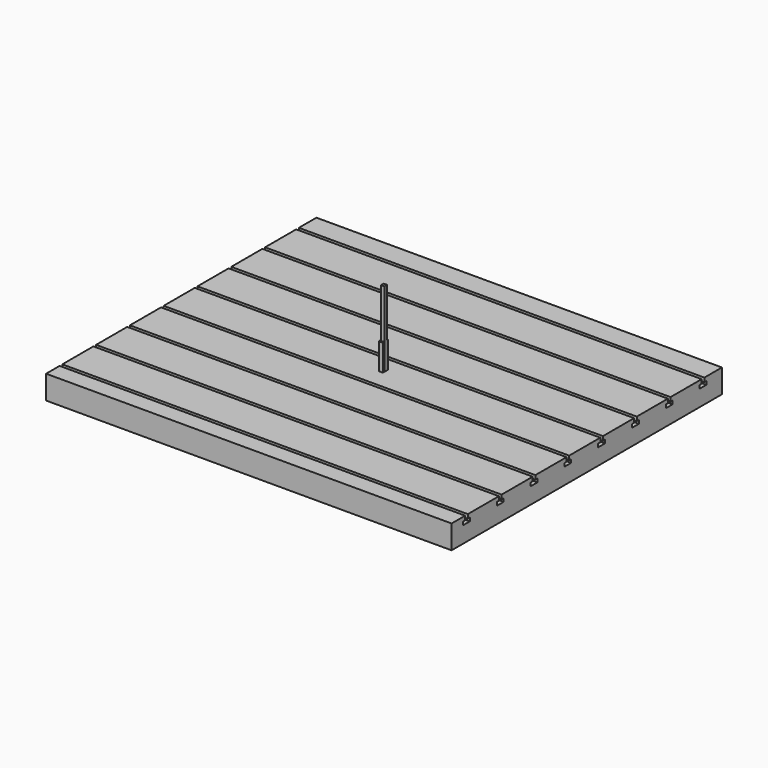
from build123d import *

# Parameters (mm, degrees)
F1_DEPTH       = 600
F1_DEPTH_BACK  = 600
F2_R           = 12.5
F2_R_2         = 5
F3_DEPTH       = 4
F3_DEPTH_BACK  = 4
F4_R           = 5
F5_DEPTH       = 15
F5_DEPTH_BACK  = 23
F6_W           = 10
F6_H           = 10
F7_DEPTH       = 250
F7_DEPTH_BACK  = 250
F9_DEPTH       = 105
F9_DEPTH_BACK  = 105
F10_W          = 234
F10_H          = 220
F11_DEPTH      = 7
F11_DEPTH_BACK = 7


with BuildPart() as f1:
    # F0 (on Right) → F1 (new body, two sides)
    with BuildSketch(Plane.YZ) as f1_sk:
        Polygon((-450, 27.012093), (-500, 27.012093), (-500, -42.987907), (500, -42.987907), (500, 27.012093), (435, 27.012093), (435, 15.012093), (442.5, 15.012093), (442.5, 5.012093), (417.5, 5.012093), (417.5, 15.012093), (425, 15.012093), (425, 27.012093), (375, 27.012093), (310, 27.012093), (310, 15.012093), (317.5, 15.012093), (317.5, 5.012093), (292.5, 5.012093), (292.5, 15.012093), (300, 15.012093), (300, 27.012093), (250, 27.012093), (185, 27.012093), (185, 15.012093), (192.5, 15.012093), (192.5, 5.012093), (167.5, 5.012093), (167.5, 15.012093), (175, 15.012093), (175, 27.012093), (125, 27.012093), (60, 27.012093), (60, 15.012093), (67.5, 15.012093), (67.5, 5.012093), (42.5, 5.012093), (42.5, 15.012093), (50, 15.012093), (50, 27.012093), (0, 27.012093), (-65, 27.012093), (-65, 15.012093), (-57.5, 15.012093), (-57.5, 5.012093), (-82.5, 5.012093), (-82.5, 15.012093), (-75, 15.012093), (-75, 27.012093), (-125, 27.012093), (-190, 27.012093), (-190, 15.012093), (-182.5, 15.012093), (-182.5, 5.012093), (-207.5, 5.012093), (-207.5, 15.012093), (-200, 15.012093), (-200, 27.012093), (-250, 27.012093), (-315, 27.012093), (-315, 15.012093), (-307.5, 15.012093), (-307.5, 5.012093), (-332.5, 5.012093), (-332.5, 15.012093), (-325, 15.012093), (-325, 27.012093), (-375, 27.012093), (-440, 27.012093), (-440, 15.012093), (-432.5, 15.012093), (-432.5, 5.012093), (-457.5, 5.012093), (-457.5, 15.012093), (-450, 15.012093), align=None)
    extrude(amount=F1_DEPTH)
    extrude(f1_sk.sketch, amount=-F1_DEPTH_BACK)


with BuildPart() as f3:
    # F2 (on Top) → F3 (new body, two sides)
    with BuildSketch(Plane.XY) as f3_sk:
        Polygon((90, 95), (-140, 95), (-140, -95), (90, -95), (140, -45), (140, 55), align=None)
        with Locations((-110, -60)):
            Circle(F2_R, mode=Mode.SUBTRACT)
        with Locations((-40, -60)):
            Circle(F2_R, mode=Mode.SUBTRACT)
        with Locations((30, -60)):
            Circle(F2_R, mode=Mode.SUBTRACT)
        with Locations((-110, 0)):
            Circle(F2_R, mode=Mode.SUBTRACT)
        with Locations((-40, 0)):
            Circle(F2_R, mode=Mode.SUBTRACT)
        with Locations((-110, 60)):
            Circle(F2_R, mode=Mode.SUBTRACT)
        with Locations((-40, 60)):
            Circle(F2_R, mode=Mode.SUBTRACT)
        with Locations((30, 0)):
            Circle(F2_R, mode=Mode.SUBTRACT)
        with Locations((130, 0)):
            Circle(F2_R_2, mode=Mode.SUBTRACT)
        with Locations((30, 60)):
            Circle(F2_R, mode=Mode.SUBTRACT)
    extrude(amount=F3_DEPTH)
    extrude(f3_sk.sketch, amount=-F3_DEPTH_BACK)

    # F4 (on face) → F5 (join, two sides)
    with BuildSketch(Plane.XY.offset(4)) as f5_sk:
        with Locations((130, 0)):
            Circle(F4_R)
    extrude(amount=F5_DEPTH)
    extrude(f5_sk.sketch, amount=-F5_DEPTH_BACK)


with BuildPart() as f7:
    # F6 (on Top) → F7 (new body, two sides)
    with BuildSketch(Plane.XY) as f7_sk:
        Rectangle(F6_W, F6_H)
    extrude(amount=F7_DEPTH)
    extrude(f7_sk.sketch, amount=-F7_DEPTH_BACK)


with BuildPart() as f9:
    # F8 (on Top) → F9 (new body, two sides)
    with BuildSketch(Plane.XY) as f9_sk:
        Polygon((4.5, 10), (-7.5, 10), (-7.5, 5), (0, 5), (0, -5), (-7.5, -5), (-7.5, -10), (4.5, -10), align=None)
    extrude(amount=F9_DEPTH)
    extrude(f9_sk.sketch, amount=-F9_DEPTH_BACK)


with BuildPart() as f11:
    # F10 (on Top) → F11 (new body, two sides)
    with BuildSketch(Plane.XY) as f11_sk:
        with Locations((-7, 0)):
            Rectangle(F10_W, F10_H)
    extrude(amount=F11_DEPTH)
    extrude(f11_sk.sketch, amount=-F11_DEPTH_BACK)


solid = Compound([f1.part, f3.part, f7.part, f9.part, f11.part])
